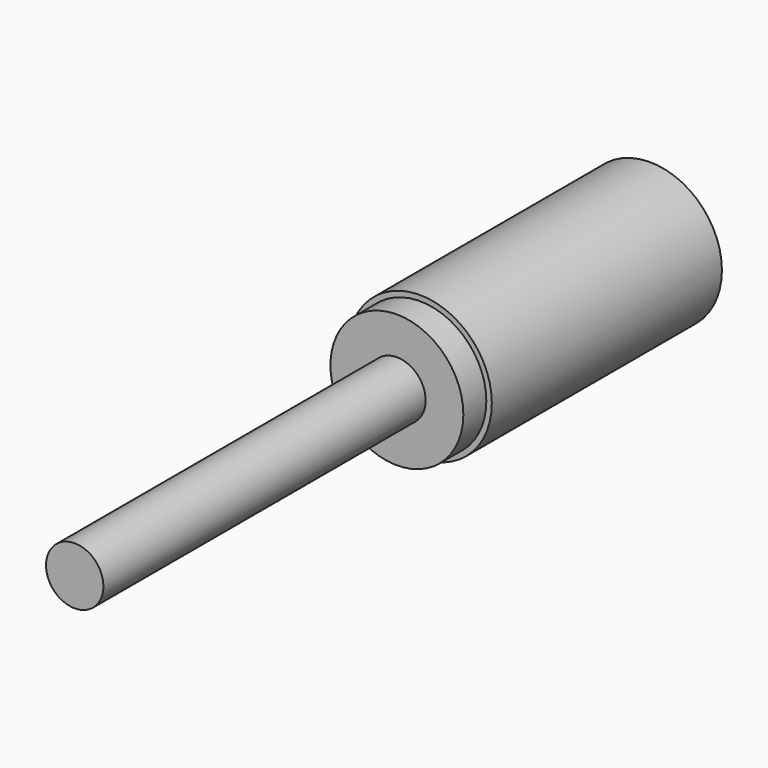
from build123d import *

# Parameters (mm, degrees)
F0_R     = 127
F1_DEPTH = 254
F2_T     = -9.525
F3_R     = 50.8
F4_DEPTH = 9.525
F5_R     = 50.673
F6_DEPTH = 762
F7_R     = 117.348
F7_R_2   = 50.8
F8_DEPTH = 50.8


with BuildPart() as f1:
    # F0 (on Front) → F1 (new body, symmetric)
    with BuildSketch(Plane.XZ):
        Circle(F0_R)
    extrude(amount=F1_DEPTH, both=True)

    # F2 (hollow: no face is removed)
    offset(amount=F2_T, mode=Mode.SUBTRACT)

    # F3 (on face) → F4 (cut, through all)
    with BuildSketch(Plane.XZ.offset(254)):
        Circle(F3_R)
    extrude(amount=-F4_DEPTH, mode=Mode.SUBTRACT)


with BuildPart() as f6:
    # F5 (on face) → F6 (new body)
    with BuildSketch(Plane.XZ.offset(254)):
        Circle(F5_R)
    extrude(amount=F6_DEPTH)


with BuildPart() as f8:
    # F7 (on face) → F8 (new body)
    with BuildSketch(Plane.XZ.offset(254)):
        Circle(F7_R)
        Circle(F7_R_2, mode=Mode.SUBTRACT)
    extrude(amount=F8_DEPTH)


solid = Compound([f1.part, f6.part, f8.part])
